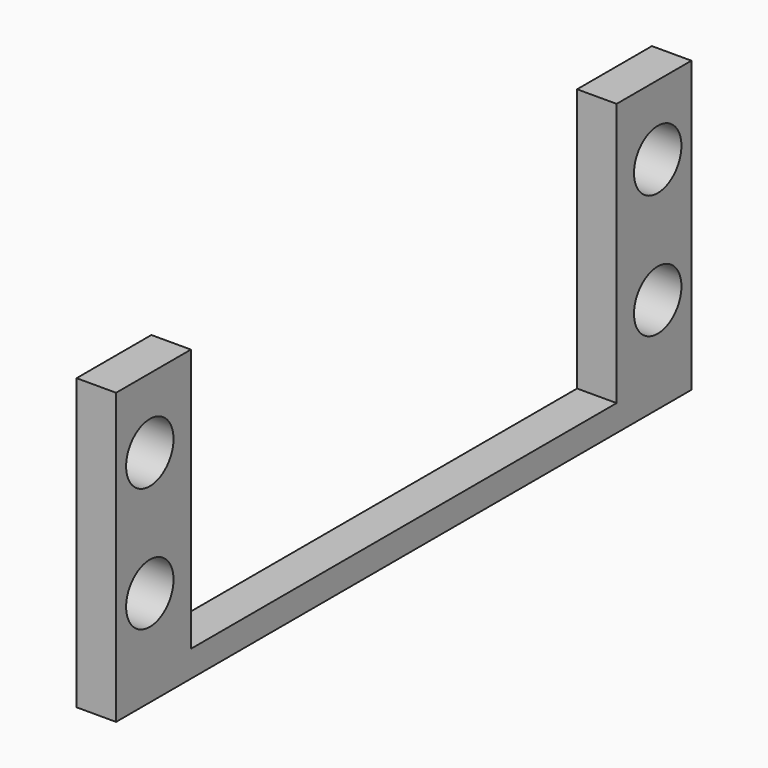
from build123d import *

# Parameters (mm, degrees)
F0_W     = 7.1
F0_H     = 20
F0_R     = 2.25
F1_DEPTH = 3


with BuildPart() as f1:
    # F0 (on Right) → F1 (new body)
    with BuildSketch(Plane.YZ):
        with Locations((-23.75, 11.290421)):
            Rectangle(F0_W, F0_H)
        with Locations((-24.1, 6.590421)):
            Circle(F0_R, mode=Mode.SUBTRACT)
        with Locations((-24.1, 15.990421)):
            Circle(F0_R, mode=Mode.SUBTRACT)
        Polygon((-20.2, 1.290421), (-27.3, 1.290421), (-27.3, -0.709579), (27.3, -0.709579), (27.3, 1.290421), (20.2, 1.290421), align=None)
        with Locations((23.75, 11.290421)):
            Rectangle(F0_W, F0_H)
        with Locations((24.1, 6.590421)):
            Circle(F0_R, mode=Mode.SUBTRACT)
        with Locations((24.1, 15.990421)):
            Circle(F0_R, mode=Mode.SUBTRACT)
    extrude(amount=F1_DEPTH)


solid = f1.part
